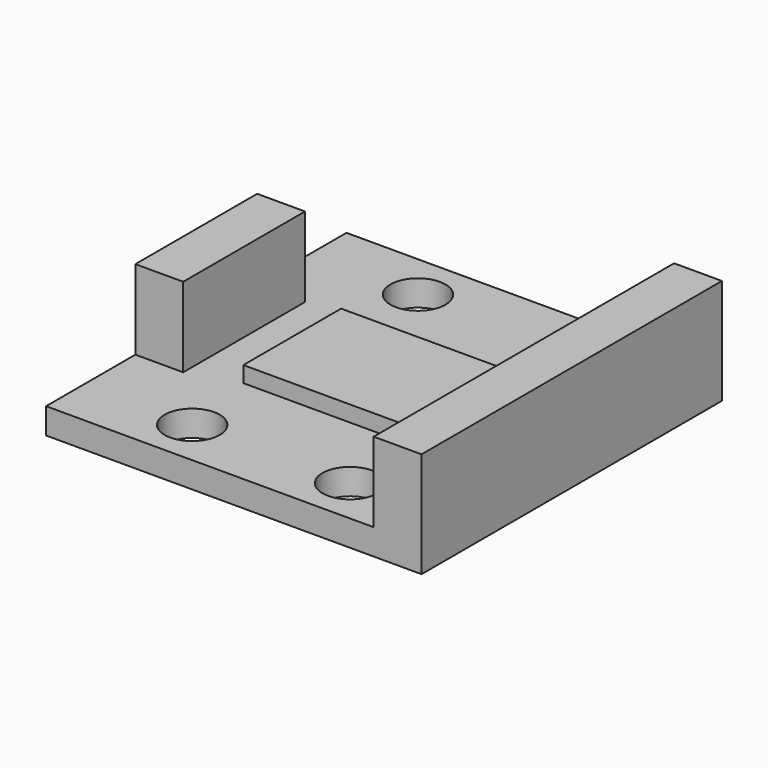
from build123d import *

# Parameters (mm, degrees)
F0_W     = 23.55
F0_H     = 23.55
F0_R     = 1.725
F1_DEPTH = 1.62
F2_W     = 3
F2_H     = 23.55
F2_H_2   = 9.55
F3_DEPTH = 5
F4_W     = 11.512548
F4_H     = 7.665078
F5_DEPTH = 1


with BuildPart() as f1:
    # F0 (on Top) → F1 (new body)
    with BuildSketch(Plane.XY):
        Rectangle(F0_W, F0_H)
        with Locations((-4.95, -8.85)):
            Circle(F0_R, mode=Mode.SUBTRACT)
        with Locations((4.95, -8.85)):
            Circle(F0_R, mode=Mode.SUBTRACT)
        with Locations((-4.95, 8.85)):
            Circle(F0_R, mode=Mode.SUBTRACT)
        with Locations((4.95, 8.85)):
            Circle(F0_R, mode=Mode.SUBTRACT)
    extrude(amount=F1_DEPTH)

    # F2 (on face) → F3 (join)
    with BuildSketch(Plane.XY.offset(1.62)):
        with Locations((10.275, 0)):
            Rectangle(F2_W, F2_H)
        with Locations((-10.275, 0)):
            Rectangle(F2_W, F2_H_2)
    extrude(amount=F3_DEPTH)

    # F4 (on face) → F5 (join)
    with BuildSketch(Plane.XY.offset(1.62)):
        Rectangle(F4_W, F4_H)
    extrude(amount=F5_DEPTH)


solid = f1.part
